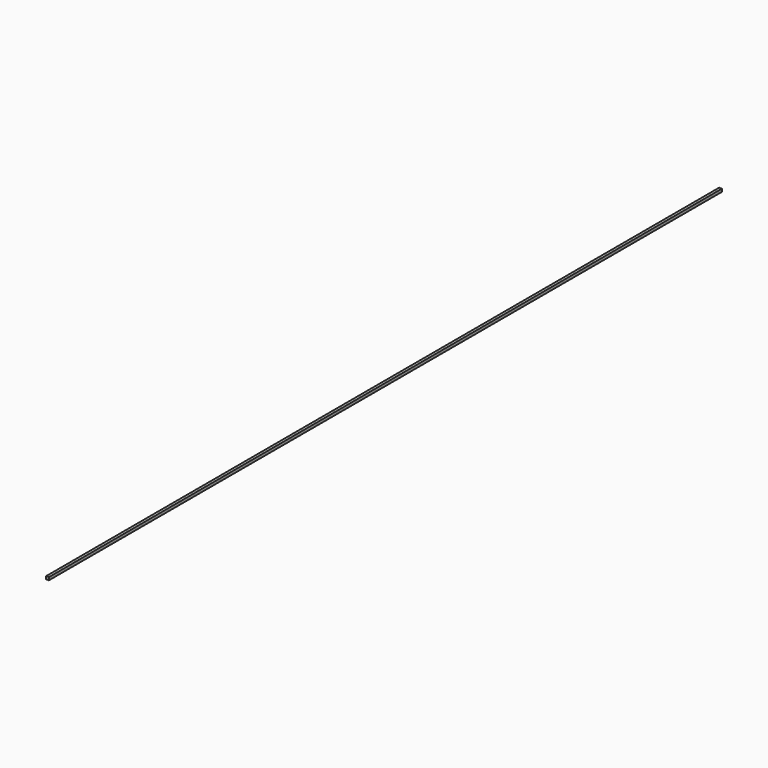
from build123d import *

# Parameters (mm, degrees)
SKETCH_W  = 1
SKETCH_H  = 1
PAD_DEPTH = 300


with BuildPart() as part:
    # Sketch → Pad (new body)
    with BuildSketch(Plane.XZ):
        with Locations((0.5, 0.5)):
            Rectangle(SKETCH_W, SKETCH_H)
    extrude(amount=PAD_DEPTH)


solid = part.part
